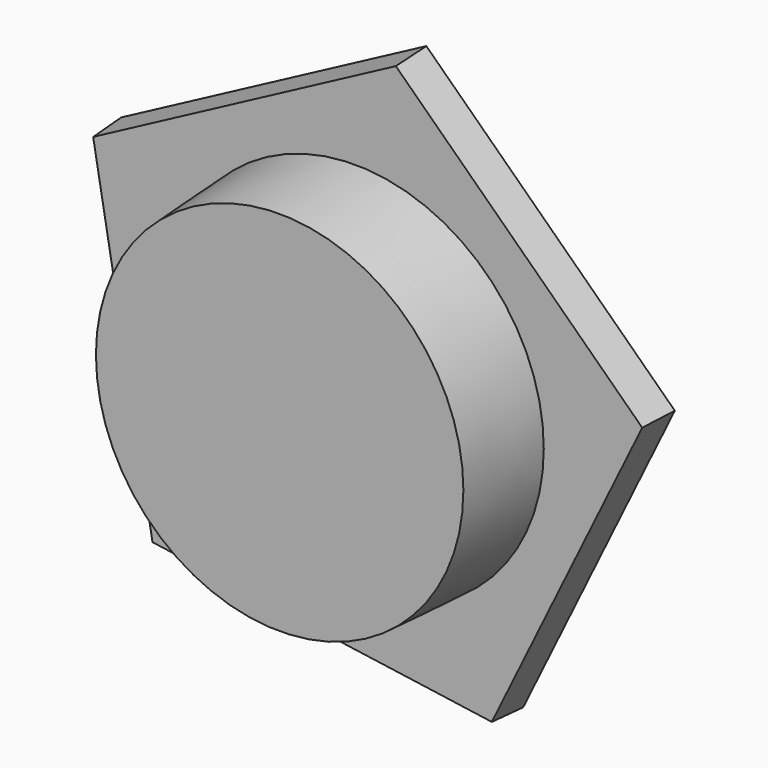
from build123d import *

# Parameters (mm, degrees)
F1_DEPTH = 30.48
F1_TAPER = -3
F2_R     = 152.4
F3_DEPTH = 76.2
F3_TAPER = 3


with BuildPart() as f1:
    # F0 (on Front) → F1 (new body)
    with BuildSketch(Plane.XZ):
        Polygon((110.4346088431, -207.968183453), (231.9156669547, 40.7638513885), (32.8971558585, 233.1616291234), (-211.584106501, 103.3379602821), (-163.6633251554, -169.295257341), align=None)
    extrude(amount=-F1_DEPTH, taper=F1_TAPER)

    # F2 (on face) → F3 (join)
    with BuildSketch(Plane.XZ):
        Circle(F2_R)
    extrude(amount=F3_DEPTH, taper=F3_TAPER)


solid = f1.part
